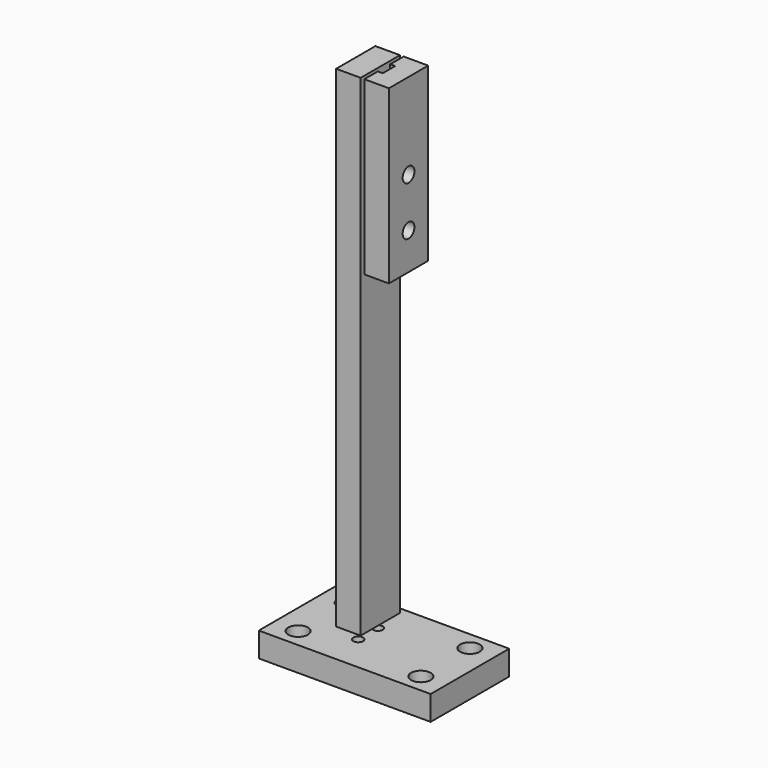
from build123d import *

# Parameters (mm, degrees)
F0_W              = 70
F0_H              = 40
F1_DEPTH          = 10
F4_D              = 6
F4_CBORE_D        = 8
F4_CBORE_DEPTH    = 5
F6_W              = 10
F6_H              = 10
F7_DEPTH          = 200
F10_DEPTH         = 70
F13_D             = 5
F13_CBORE_D       = 6
F13_CBORE_DEPTH   = 5
F13_2_D           = 5
F13_2_CBORE_D     = 6
F13_2_CBORE_DEPTH = 5
F15_D             = 4
F15_DEPTH         = 20
F15_CBORE_D       = 6
F15_CBORE_DEPTH   = 5
F15_TIP           = 1.2017212381
F15_2_D           = 4
F15_2_DEPTH       = 20
F15_2_CBORE_D     = 6
F15_2_CBORE_DEPTH = 5
F15_2_TIP         = 1.2017212381
F17_W             = 2
F17_H             = 3.175
F18_DEPTH         = 5


with BuildPart() as f1:
    # F0 (on Top) → F1 (new body)
    with BuildSketch(Plane.XY):
        Rectangle(F0_W, F0_H)
    extrude(amount=F1_DEPTH)

    # F4 (through all)
    with Locations(Plane.XY.offset(10)):
        with Locations((-25, 12.5), (25, 12.5), (25, -12.5), (-25, -12.5)):
            CounterBoreHole(F4_D / 2, F4_CBORE_D / 2, F4_CBORE_DEPTH)

    # F15
    with Locations(Plane(origin=(0, 0, 0), x_dir=(1, 0, 0), z_dir=(0, 0, -1))):
        with Locations((-6.5, -5), (-6.5, 5)):
            CounterBoreHole(F15_D / 2, F15_CBORE_D / 2, F15_CBORE_DEPTH, depth=F15_DEPTH)
            with Locations((0, 0, -(F15_DEPTH + F15_TIP / 2))):  # 118° drill point
                Cone(0, F15_D / 2, F15_TIP, mode=Mode.SUBTRACT)


with BuildPart() as f7:
    # F6 (on offset) → F7 (new body)
    with BuildSketch(Plane.XY.offset(15)):
        with Locations((-6.5, 5)):
            Rectangle(F6_W, F6_H)
        with Locations((-6.5, -5)):
            Rectangle(F6_W, F6_H)
    extrude(amount=F7_DEPTH)

    # F13 (through all)
    with Locations(Plane.YZ.offset(10)):
        with Locations((0, 160), (0, 180)):
            CounterBoreHole(F13_D / 2, F13_CBORE_D / 2, F13_CBORE_DEPTH)

    # F15#2
    with Locations(Plane(origin=(0, 0, 0), x_dir=(1, 0, 0), z_dir=(0, 0, -1))):
        with Locations((-6.5, -5), (-6.5, 5)):
            CounterBoreHole(F15_2_D / 2, F15_2_CBORE_D / 2, F15_2_CBORE_DEPTH, depth=F15_2_DEPTH)
            with Locations((0, 0, -(F15_2_DEPTH + F15_2_TIP / 2))):  # 118° drill point
                Cone(0, F15_2_D / 2, F15_2_TIP, mode=Mode.SUBTRACT)


with BuildPart() as f10:
    # F9 (on offset) → F10 (new body)
    with BuildSketch(Plane.XY.offset(145)):
        Polygon((0, 10), (0, 0), (0, -10), (10, -10), (10, 10), align=None)
    extrude(amount=F10_DEPTH)

    # F13#2 (through all)
    with Locations(Plane.YZ.offset(10)):
        with Locations((0, 160), (0, 180)):
            CounterBoreHole(F13_2_D / 2, F13_2_CBORE_D / 2, F13_2_CBORE_DEPTH)

    # F17 (on offset) → F18 (cut)
    with BuildSketch(Plane.XY.offset(215)):
        with Locations((1, 1.5875)):
            Rectangle(F17_W, F17_H)
        with Locations((1, -1.5875)):
            Rectangle(F17_W, F17_H)
    extrude(amount=-F18_DEPTH, mode=Mode.SUBTRACT)


solid = Compound([f1.part, f7.part, f10.part])
